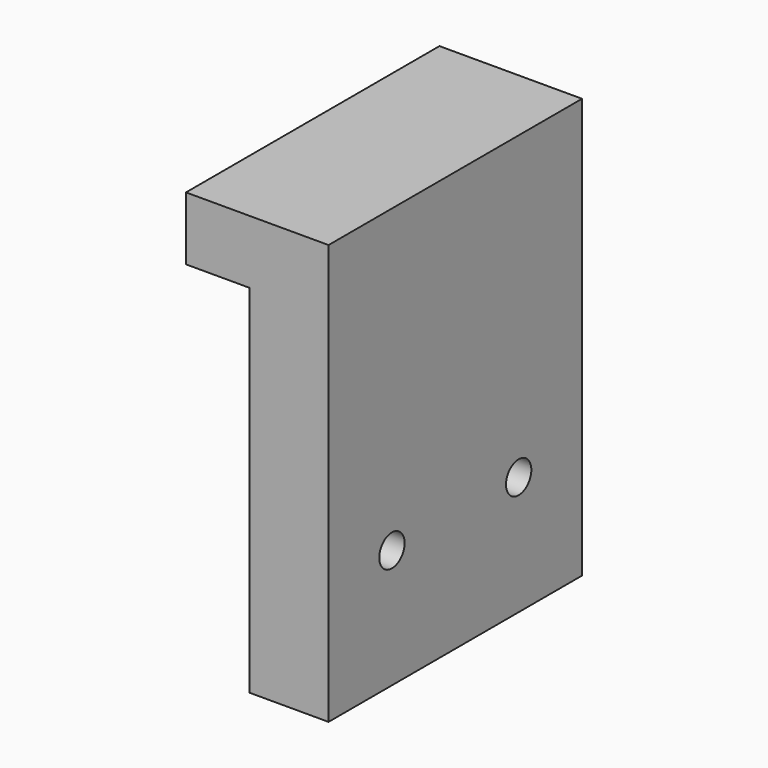
from build123d import *

# Parameters (mm, degrees)
F1_DEPTH = 20
F2_R     = 2
F3_DEPTH = 18.001


with BuildPart() as f1:
    # F0 (on Front) → F1 (new body, symmetric)
    with BuildSketch(Plane.XZ):
        Polygon((-10, 45), (-10, 0), (0, 0), (0, 53), (-18, 53), (-18, 45), align=None)
    extrude(amount=F1_DEPTH, both=True)

    # F2 (on face) → F3 (cut, through all)
    with BuildSketch(Plane.YZ):
        with Locations((-10, 15)):
            Circle(F2_R)
        with Locations((10, 15)):
            Circle(F2_R)
    extrude(amount=-F3_DEPTH, mode=Mode.SUBTRACT)


solid = f1.part
